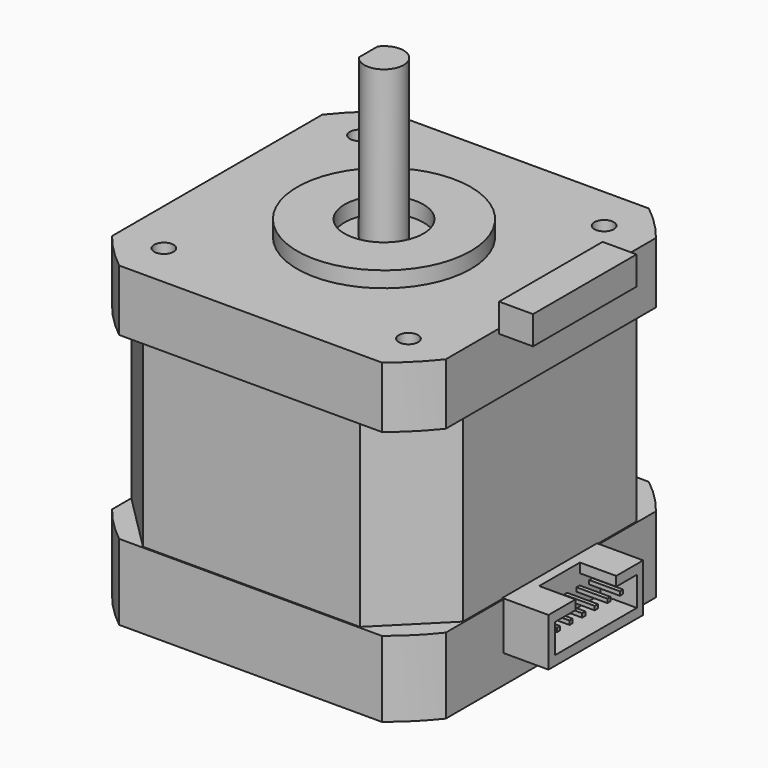
from build123d import *

# Parameters (mm, degrees)
BOX_W           = 4
BOX_H           = 0.5
BOX_DEPTH       = 0.5
ARRAY_Y_COUNT   = 6
ARRAY_Y_PITCH   = 2
SKETCH017_W     = 15
SKETCH017_H     = 6.1
PAD008_DEPTH    = 6.7
POCKET007_DEPTH = 4.6
PAD002_DEPTH    = 9.6
PAD003_DEPTH    = 22.75
PAD004_DEPTH    = 7.75
SKETCH010_R     = 1.225
POCKET003_DEPTH = 4.5
SKETCH011_R     = 11
SKETCH011_R_2   = 5
PAD005_DEPTH    = 2
SKETCH012_R     = 2.5
PAD006_DEPTH    = 20
SKETCH013_W     = 0.5
SKETCH013_H     = 3
POCKET004_DEPTH = 17
SKETCH014_R     = 1.5
SKETCH014_R_2   = 4.5
POCKET005_DEPTH = 3
CHAMFER004_SIZE = 0.4
SKETCH015_W     = 4.3
SKETCH015_H     = 16.4
PAD007_DEPTH    = 3.6
SKETCH016_W     = 16.4
SKETCH016_H     = 6
POCKET006_DEPTH = 1


with BuildPart() as pins:
    # Box → Box (new body)
    with BuildSketch(Plane.XY):
        with Locations((2, 0.25)):
            Rectangle(BOX_W, BOX_H)
    extrude(amount=BOX_DEPTH)

    # Array Y: pins ×6


with BuildPart() as pins_1:
    add(pins.part)
    with Locations(*[(0, i * ARRAY_Y_PITCH, 0) for i in range(1, ARRAY_Y_COUNT)]):
        add(pins.part)


with BuildPart() as pins_2:
    # Array placement: moved
    add(pins_1.part.moved(Location((2, -5.3, 0))))


with BuildPart() as connector:
    # Sketch017 → Pad008 (new body)
    with BuildSketch(Plane.YZ):
        Rectangle(SKETCH017_W, SKETCH017_H)
    extrude(amount=PAD008_DEPTH)

    # Sketch018 (on Face6 of Pad008) → Pocket007 (cut)
    with BuildSketch(Plane.YZ.offset(6.7)):
        Polygon((-6.5, 1.85), (-3.227377, 1.85), (-3.227377, 3.85), (3.227377, 3.85), (3.227377, 1.85), (6.5, 1.85), (6.5, -1.85), (-6.5, -1.85), align=None)
    extrude(amount=-POCKET007_DEPTH, mode=Mode.SUBTRACT)

    # Fusion001: union pins
    add(pins_2.part)


with BuildPart() as connector_1:
    # Fusion001 placement: moved
    add(connector.part.moved(Location((20.15, 0, 6.65))))


with BuildPart() as motor_with_connector:
    # Sketch007 → Pad002 (new body)
    with BuildSketch(Plane.XY):
        with BuildLine():
            Line((-16.65, -21.15), (16.65, -21.15))
            ThreePointArc((16.65, -21.15), (19.033457, -19.033457), (21.15, -16.65))
            Line((21.15, -16.65), (21.15, 16.65))
            ThreePointArc((21.15, 16.65), (19.033457, 19.033457), (16.65, 21.15))
            Line((16.65, 21.15), (-16.65, 21.15))
            ThreePointArc((-16.65, 21.15), (-19.033457, 19.033457), (-21.15, 16.65))
            Line((-21.15, 16.65), (-21.15, -16.65))
            ThreePointArc((-21.15, -16.65), (-19.033457, -19.033457), (-16.65, -21.15))
        make_face()
    extrude(amount=PAD002_DEPTH)

    # Sketch008 (on Face10 of Pad002) → Pad003 (new body)
    with BuildSketch(Plane.XY.offset(9.6)):
        Polygon((-21, -13.75), (-21, 13.75), (-13.75, 21), (13.75, 21), (21, 13.75), (21, -13.75), (13.75, -21), (-13.75, -21), align=None)
    extrude(amount=PAD003_DEPTH)

    # Sketch009 (on Face19 of Pad003) → Pad004 (new body)
    with BuildSketch(Plane.XY.offset(32.35)):
        with BuildLine():
            Line((-16.65, -21.15), (16.65, -21.15))
            ThreePointArc((16.65, -21.15), (19.033457, -19.033457), (21.15, -16.65))
            Line((21.15, -16.65), (21.15, 16.65))
            ThreePointArc((21.15, 16.65), (19.033457, 19.033457), (16.65, 21.15))
            Line((16.65, 21.15), (-16.65, 21.15))
            ThreePointArc((-16.65, 21.15), (-19.033457, 19.033457), (-21.15, 16.65))
            Line((-21.15, 16.65), (-21.15, -16.65))
            ThreePointArc((-21.15, -16.65), (-19.033457, -19.033457), (-16.65, -21.15))
        make_face()
    extrude(amount=PAD004_DEPTH)

    # Sketch010 (on Face28 of Pad004) → Pocket003 (cut)
    with BuildSketch(Plane.XY.offset(40.1)):
        with Locations((-15.5, 15.5)):
            Circle(SKETCH010_R)
        with Locations((15.5, 15.5)):
            Circle(SKETCH010_R)
        with Locations((15.5, -15.5)):
            Circle(SKETCH010_R)
        with Locations((-15.5, -15.5)):
            Circle(SKETCH010_R)
    extrude(amount=-POCKET003_DEPTH, mode=Mode.SUBTRACT)

    # Sketch011 (on Face28 of Pocket003) → Pad005 (new body)
    with BuildSketch(Plane.XY.offset(40.1)):
        Circle(SKETCH011_R)
        Circle(SKETCH011_R_2, mode=Mode.SUBTRACT)
    extrude(amount=PAD005_DEPTH)

    # Sketch012 (on Face40 of Pad005) → Pad006 (new body)
    with BuildSketch(Plane.XY.offset(40.1)):
        Circle(SKETCH012_R)
    extrude(amount=PAD006_DEPTH)

    # Sketch013 (on Face42 of Pad006) → Pocket004 (cut)
    with BuildSketch(Plane.XY.offset(60.1)):
        with Locations((-2.25, 0)):
            Rectangle(SKETCH013_W, SKETCH013_H)
    extrude(amount=-POCKET004_DEPTH, mode=Mode.SUBTRACT)

    # Sketch014 (on Face4 of Pocket004) → Pocket005 (cut)
    with BuildSketch(Plane(origin=(0, 0, 0), x_dir=(1, 0, 0), z_dir=(0, 0, -1))):
        with Locations((-15.5, 15.5)):
            Circle(SKETCH014_R)
        with Locations((15.5, 15.5)):
            Circle(SKETCH014_R)
        with Locations((15.5, -15.5)):
            Circle(SKETCH014_R)
        with Locations((-15.5, -15.5)):
            Circle(SKETCH014_R)
        Circle(SKETCH014_R_2)
    extrude(amount=-POCKET005_DEPTH, mode=Mode.SUBTRACT)

    # Chamfer004
    chamfer004_edges = [motor_with_connector.edges().sort_by_distance(p)[0] for p in [
        (-16.725, 15.5, 35.6),
    ]]
    chamfer(chamfer004_edges, length=CHAMFER004_SIZE)

    # Sketch015 (on Face45 of Chamfer004) → Pad007 (new body)
    with BuildSketch(Plane.XY.offset(43.1)):
        with Locations((23.3, 0)):
            Rectangle(SKETCH015_W, SKETCH015_H)
    extrude(amount=-PAD007_DEPTH)

    # Sketch016 (on Face5 of Pad007) → Pocket006 (cut)
    with BuildSketch(Plane(origin=(21.15, 0, 0), x_dir=(0, -1, 0), z_dir=(-1, 0, 0))):
        with Locations((0, 6.6)):
            Rectangle(SKETCH016_W, SKETCH016_H)
    extrude(amount=-POCKET006_DEPTH, mode=Mode.SUBTRACT)

    # Fusion002: union connector
    add(connector_1.part)


solid = motor_with_connector.part
